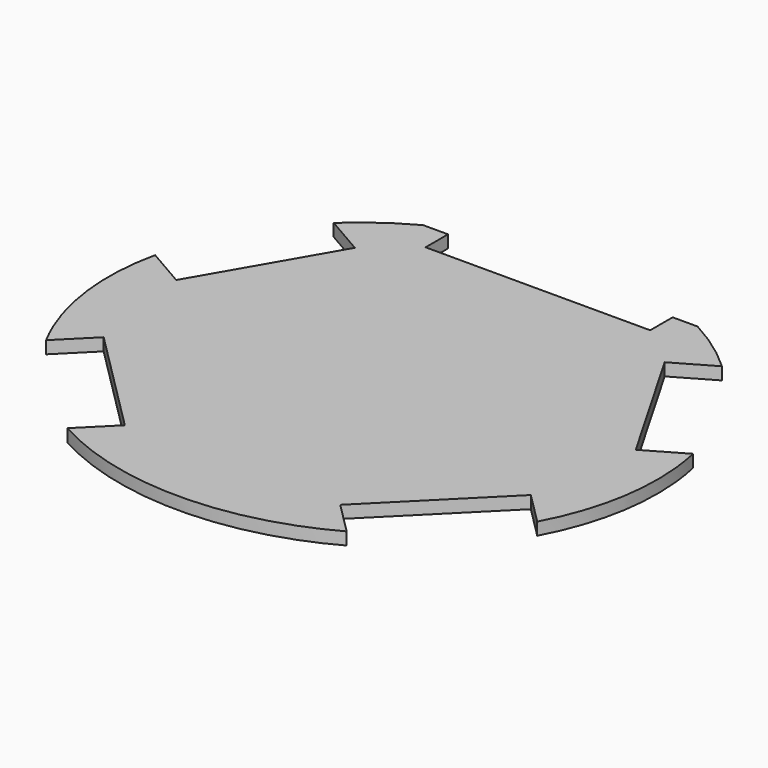
from build123d import *

# Parameters (mm, degrees)
F1_DEPTH = 4


with BuildPart() as f1:
    # F0 (on Top) → F1 (new body)
    with BuildSketch(Plane.XY):
        with BuildLine():
            Line((-36, 71.0140831103), (-44, 71.0140831103))
            add(Edge.make_bspline(
                [(-44, 71.0140831103), (-54.0283164257, 65.6189945034), (-62.2174482843, 57.990161631)],
                knots=[5.235987756, 5.235987756, 5.235987756, 5.4976594153, 5.4976594153, 5.4976594153], degree=2, weights=[1, 0.9914531953, 1]))
            Line((-62.2174482843, 57.990161631), (-49.6600799294, 50.740161631))
            Line((-49.6600799294, 50.740161631), (-73.6600799294, 9.1709422494))
            Line((-73.6600799294, 9.1709422494), (-86.2174482843, 16.4209422494))
            add(Edge.make_bspline(
                [(-86.2174482843, 16.4209422494), (-92.3022663318, -11.319095525), (-78.7223993606, -36.6476383594)],
                knots=[6.0815667198, 6.0815667198, 6.0815667198, 6.7465073975, 6.7465073975, 6.7465073975], degree=2, weights=[1, 0.9452389616, 1]))
            Line((-78.7223993606, -36.6476383594), (-68.4693510334, -26.3945900322))
            Line((-68.4693510334, -26.3945900322), (-34.5282255364, -60.3357155292))
            Line((-34.5282255364, -60.3357155292), (-44.7812738636, -70.5887638564))
            add(Edge.make_bspline(
                [(-44.7812738636, -70.5887638564), (0, -95.2559533934), (44.7812738636, -70.5887638564)],
                knots=[1.0369152893, 1.0369152893, 1.0369152893, 2.1046773643, 2.1046773643, 2.1046773643], degree=2, weights=[1, 0.8608385836, 1]))
            Line((44.7812738636, -70.5887638564), (34.5282255364, -60.3357155292))
            Line((34.5282255364, -60.3357155292), (68.4693510334, -26.3945900322))
            Line((68.4693510334, -26.3945900322), (78.7223993606, -36.6476383594))
            add(Edge.make_bspline(
                [(78.7223993606, -36.6476383594), (92.3022663318, -11.319095525), (86.2174482843, 16.4209422494)],
                knots=[2.6782705633, 2.6782705633, 2.6782705633, 3.343211241, 3.343211241, 3.343211241], degree=2, weights=[1, 0.9452389616, 1]))
            Line((86.2174482843, 16.4209422494), (73.6600799294, 9.1709422494))
            Line((73.6600799294, 9.1709422494), (49.6600799294, 50.740161631))
            Line((49.6600799294, 50.740161631), (62.2174482843, 57.990161631))
            add(Edge.make_bspline(
                [(62.2174482843, 57.990161631), (54.0283164257, 65.6189945034), (44, 71.0140831103)],
                knots=[3.9271185454, 3.9271185454, 3.9271185454, 4.1887902048, 4.1887902048, 4.1887902048], degree=2, weights=[1, 0.9914531953, 1]))
            Line((44, 71.0140831103), (36, 71.0140831103))
            Line((36, 71.0140831103), (36, 62.0140831103))
            Line((36, 62.0140831103), (-36, 62.0140831103))
            Line((-36, 62.0140831103), (-36, 71.0140831103))
        make_face()
    extrude(amount=F1_DEPTH)


solid = f1.part
